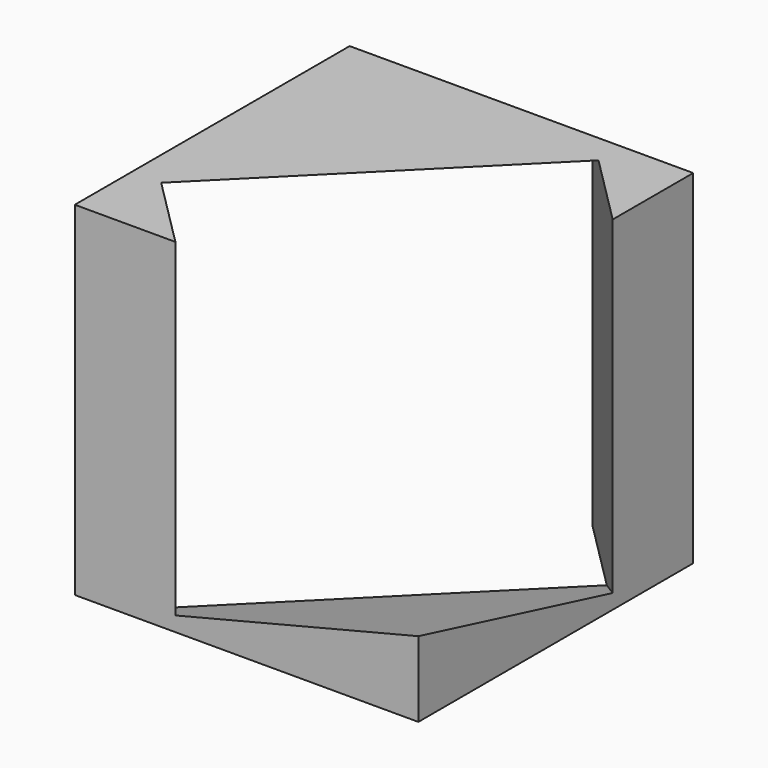
from build123d import *

# Parameters (mm, degrees)
F0_W          = 10
F0_H          = 10
F1_DEPTH      = 10
F6_DEPTH      = 8.334333
F6_DEPTH_BACK = 8.334333


with BuildPart() as f1:
    # F0 (on Top) → F1 (new body)
    with BuildSketch(Plane.XY):
        Rectangle(F0_W, F0_H)
    extrude(amount=F1_DEPTH)

    # F5 (on face) → F6 (cut, two sides)
    with BuildSketch(Plane(origin=(1.111111, -1.111111, 0.555556), x_dir=(-0.745356, -0.596285, 0.298142), z_dir=(-0.666667, 0.666667, -0.333333))) as f6_sk:
        Polygon((-4.833843, 1.309858), (4.65299, -1.852419), (7.815267, 7.634414), (-1.671566, 10.796691), align=None)
    extrude(amount=F6_DEPTH, mode=Mode.SUBTRACT)
    extrude(f6_sk.sketch, amount=-F6_DEPTH_BACK, mode=Mode.SUBTRACT)


solid = f1.part
